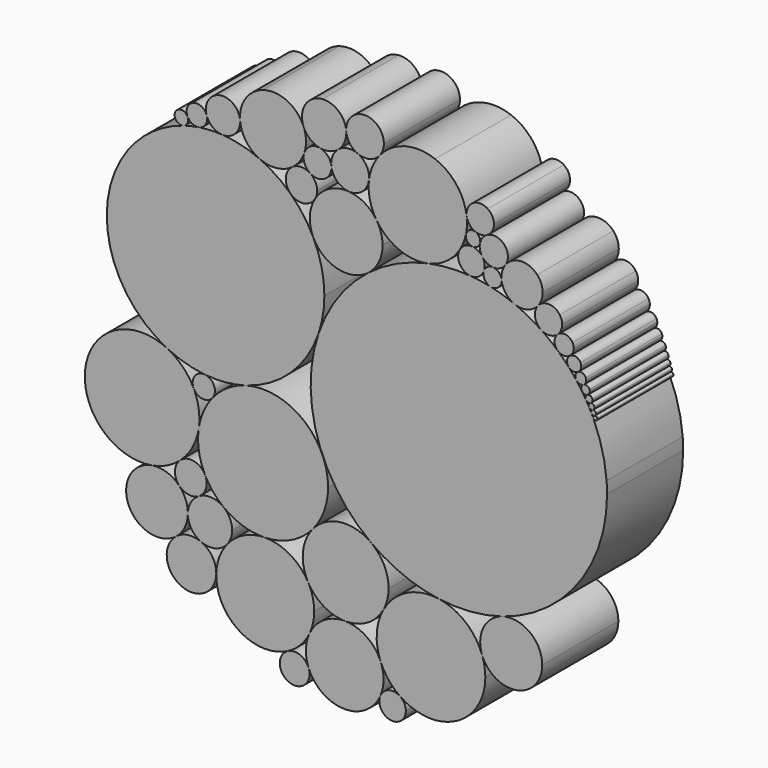
from build123d import *

# Parameters (mm, degrees)
F1_DEPTH = 25.4


with BuildPart() as f1:
    # F0 (on Front) → F1 (new body)
    with BuildSketch(Plane.XZ):
        with BuildLine():
            ThreePointArc((70.7265860618, 2.4745683144), (70.6955349307, 4.0417539427), (70.6024302769, 5.6064796342))
            ThreePointArc((70.6024302769, 5.6064796342), (69.4343144223, 12.5038145939), (67.069684358, 19.0876014111))
            ThreePointArc((67.069684358, 19.0876014111), (66.8194689119, 19.6180642203), (66.561417432, 20.1447595736))
            ThreePointArc((66.561417432, 20.1447595736), (66.2468891695, 20.761306961), (65.9216235359, 21.37225784))
            ThreePointArc((65.9216235359, 21.37225784), (65.5182667451, 22.0960064355), (65.0998424587, 22.8111496704))
            ThreePointArc((65.0998424587, 22.8111496704), (64.5703624695, 23.6697269048), (64.01916646, 24.5145268133))
            ThreePointArc((64.01916646, 24.5145268133), (63.3048176834, 25.5438569264), (62.5582343908, 26.5500517601))
            ThreePointArc((62.5582343908, 26.5500517601), (61.5627975411, 27.7953790129), (60.5179974352, 28.9995912978))
            ThreePointArc((60.5179974352, 28.9995912978), (59.0770425577, 30.5120631597), (57.5582654614, 31.9463707362))
            ThreePointArc((57.5582654614, 31.9463707362), (55.3787244874, 33.761932333), (53.0746979638, 35.4166602706))
            ThreePointArc((53.0746979638, 35.4166602706), (49.6190022197, 37.4700697009), (45.9727850521, 39.162235098))
            ThreePointArc((45.9727850521, 39.162235098), (42.8421333623, 40.2755892893), (39.6291018203, 41.1223276597))
            ThreePointArc((39.6291018203, 41.1223276597), (36.9479887491, 41.6135785986), (34.2394143083, 41.9190606502))
            ThreePointArc((34.2394143083, 41.9190606502), (28.5591375915, 41.9531797016), (22.9325194607, 41.1735156082))
            ThreePointArc((22.9325194607, 41.1735156082), (14.5566621432, 38.3854509354), (7.0074925509, 33.8096090578))
            ThreePointArc((7.0074925509, 33.8096090578), (-1.0152822966, 25.4950711587), (-6.2938644817, 15.2172782612))
            ThreePointArc((-6.2938644817, 15.2172782612), (-8.3710306116, 0.9071162723), (-5.1674009478, -13.1936678286))
            ThreePointArc((-5.1674009478, -13.1936678286), (0.1996326208, -22.1557677236), (7.7251619302, -29.4008137874))
            ThreePointArc((7.7251619302, -29.4008137874), (16.266036153, -34.1783966548), (25.7183035319, -36.7134453613))
            ThreePointArc((25.7183035319, -36.7134453613), (34.2918427277, -36.9657988851), (42.7182940762, -35.3644949427))
            ThreePointArc((42.7182940762, -35.3644949427), (62.9627524245, -21.0640123996), (70.7265860618, 2.4745683144))
        make_face()
    extrude(amount=F1_DEPTH)


with BuildPart() as f1b:
    # F0 (on Front) → F1, piece 2 (new body)
    with BuildSketch(Plane.XZ):
        with BuildLine():
            ThreePointArc((-25.8548264159, -3.3675009466), (-13.785256667, 3.5155633689), (-6.2938644817, 15.2172782612))
            ThreePointArc((-6.2938644817, 15.2172782612), (-5.1357265909, 19.8309585396), (-4.7461978644, 24.5718019727))
            ThreePointArc((-4.7461978644, 24.5718019727), (-5.4851295573, 31.0816232735), (-7.6643257676, 37.2602070347))
            ThreePointArc((-7.6643257676, 37.2602070347), (-10.3368270885, 41.7036101818), (-13.7568341287, 45.6009999086))
            ThreePointArc((-13.7568341287, 45.6009999086), (-17.6573822435, 48.7233844861), (-22.0353523038, 51.1310678535))
            ThreePointArc((-22.0353523038, 51.1310678535), (-26.9470539079, 52.7985131931), (-32.0770261845, 53.5656970366))
            ThreePointArc((-32.0770261845, 53.5656970366), (-35.2240301874, 53.5809063843), (-38.3542064422, 53.2555417689))
            ThreePointArc((-38.3542064422, 53.2555417689), (-40.3827317011, 52.8583288452), (-42.3778686898, 52.3178464412))
            ThreePointArc((-42.3778686898, 52.3178464412), (-50.6926141142, 48.1918698052), (-57.2810943568, 41.6534752953))
            ThreePointArc((-57.2810943568, 41.6534752953), (-61.9894388052, 17.6138397391), (-46.6389350409, -1.4763310119))
            ThreePointArc((-46.6389350409, -1.4763310119), (-41.7685467627, -3.3555398519), (-36.6404322375, -4.3325502209))
            ThreePointArc((-36.6404322375, -4.3325502209), (-31.2022565944, -4.3571213547), (-25.8548264159, -3.3675009466))
        make_face()
    extrude(amount=F1_DEPTH)


with BuildPart() as f1c:
    # F0 (on Front) → F1, piece 3 (new body)
    with BuildSketch(Plane.XZ):
        with BuildLine():
            ThreePointArc((-7.6643257676, 37.2602070347), (-1.1487858414, 32.0467276144), (7.0074925509, 33.8096090578))
            ThreePointArc((7.0074925509, 33.8096090578), (9.7945066165, 37.2171304104), (10.7917476304, 41.5048057166))
            ThreePointArc((10.7917476304, 41.5048057166), (10.3862582648, 44.282422352), (9.2036352491, 46.8281989726))
            ThreePointArc((9.2036352491, 46.8281989726), (5.9988915887, 49.8812350129), (1.7724251326, 51.1959183541))
            ThreePointArc((1.7724251326, 51.1959183541), (-3.4138223762, 50.1215421239), (-7.2660552899, 46.4867451441))
            ThreePointArc((-7.2660552899, 46.4867451441), (-8.6314755655, 41.9238196628), (-7.6643257676, 37.2602070347))
        make_face()
    extrude(amount=F1_DEPTH)


with BuildPart() as f1d:
    # F0 (on Front) → F1, piece 4 (new body)
    with BuildSketch(Plane.XZ):
        with BuildLine():
            ThreePointArc((9.2036352491, 46.8281989726), (15.1930967079, 41.8765105822), (22.9325194607, 41.1735156082))
            ThreePointArc((22.9325194607, 41.1735156082), (27.838754324, 43.3347419714), (31.473790229, 47.2753705883))
            ThreePointArc((31.473790229, 47.2753705883), (32.4322021013, 49.2246755141), (33.0564667524, 51.3052131024))
            ThreePointArc((33.0564667524, 51.3052131024), (33.2703177925, 52.659794636), (33.3418610959, 54.0292854006))
            ThreePointArc((33.3418610959, 54.0292854006), (33.3156757676, 54.8585230557), (33.2372241211, 55.6844565271))
            ThreePointArc((33.2372241211, 55.6844565271), (30.5034036743, 62.1874889086), (24.8010494435, 66.3403626866))
            ThreePointArc((24.8010494435, 66.3403626866), (16.7600966182, 66.7147779228), (10.0089381595, 62.3308335147))
            ThreePointArc((10.0089381595, 62.3308335147), (8.1064823247, 59.1795831403), (7.1525043614, 55.6243555566))
            ThreePointArc((7.1525043614, 55.6243555566), (7.3987474472, 51.044551059), (9.2036352491, 46.8281989726))
        make_face()
    extrude(amount=F1_DEPTH)


with BuildPart() as f1e:
    # F0 (on Front) → F1, piece 5 (new body)
    with BuildSketch(Plane.XZ):
        with BuildLine():
            ThreePointArc((-2.8889233441, 55.6784108901), (-1.3688351527, 52.5942353802), (1.7724251326, 51.1959183541))
            ThreePointArc((1.7724251326, 51.1959183541), (5.3474388159, 52.33498778), (7.1525043614, 55.6243555566))
            ThreePointArc((7.1525043614, 55.6243555566), (7.1805182346, 55.9305206056), (7.1898677208, 56.2378224139))
            ThreePointArc((7.1898677208, 56.2378224139), (6.3549715666, 59.020557652), (4.1260744322, 60.8840716867))
            ThreePointArc((4.1260744322, 60.8840716867), (1.4274811299, 61.2429907815), (-1.0659168938, 60.1501984759))
            ThreePointArc((-1.0659168938, 60.1501984759), (-2.5459486265, 58.146075785), (-2.8889233441, 55.6784108901))
        make_face()
    extrude(amount=F1_DEPTH)


with BuildPart() as f1f:
    # F0 (on Front) → F1, piece 6 (new body)
    with BuildSketch(Plane.XZ):
        with BuildLine():
            ThreePointArc((-10.0938324873, 56.4301447969), (-10.0698999432, 54.0359955639), (-8.5875700652, 52.1557771062))
            ThreePointArc((-8.5875700652, 52.1557771062), (-4.8018665272, 52.0115545486), (-2.8661518301, 55.2681417246))
            ThreePointArc((-2.8661518301, 55.2681417246), (-2.8718490863, 55.473592041), (-2.8889233441, 55.6784108901))
            ThreePointArc((-2.8889233441, 55.6784108901), (-3.8579044087, 57.7919827762), (-5.8950315726, 58.9127964713))
            ThreePointArc((-5.8950315726, 58.9127964713), (-8.4602551397, 58.4592970213), (-10.0938324873, 56.4301447969))
        make_face()
    extrude(amount=F1_DEPTH)


with BuildPart() as f1g:
    # F0 (on Front) → F1, piece 7 (new body)
    with BuildSketch(Plane.XZ):
        with BuildLine():
            ThreePointArc((-13.3147452838, 52.0383806589), (-15.0475498917, 48.9235108189), (-13.7568341287, 45.6009999086))
            ThreePointArc((-13.7568341287, 45.6009999086), (-10.2983894151, 44.4825942492), (-7.2660552899, 46.4867451441))
            ThreePointArc((-7.2660552899, 46.4867451441), (-6.8239984409, 47.5213635941), (-6.6730213069, 48.6362875824))
            ThreePointArc((-6.6730213069, 48.6362875824), (-7.182633283, 50.6395538812), (-8.5875700652, 52.1557771062))
            ThreePointArc((-8.5875700652, 52.1557771062), (-10.9692894093, 52.8271851963), (-13.3147452838, 52.0383806589))
        make_face()
    extrude(amount=F1_DEPTH)


with BuildPart() as f1h:
    # F0 (on Front) → F1, piece 8 (new body)
    with BuildSketch(Plane.XZ):
        with BuildLine():
            ThreePointArc((-27.2557184826, 58.4891686099), (-25.6579066334, 54.0918692218), (-22.0353523038, 51.1310678535))
            ThreePointArc((-22.0353523038, 51.1310678535), (-17.554279227, 50.4239515587), (-13.3147452838, 52.0383806589))
            ThreePointArc((-13.3147452838, 52.0383806589), (-11.3567006786, 53.9793420927), (-10.0938324873, 56.4301447969))
            ThreePointArc((-10.0938324873, 56.4301447969), (-9.7613019093, 57.7942362334), (-9.6495135149, 59.193816666))
            ThreePointArc((-9.6495135149, 59.193816666), (-9.8125148768, 60.8813778929), (-10.2954922341, 62.5065441031))
            ThreePointArc((-10.2954922341, 62.5065441031), (-14.6982462153, 67.165121757), (-21.0926065632, 67.6109290223))
            ThreePointArc((-21.0926065632, 67.6109290223), (-25.7726435346, 64.1300615473), (-27.2557184826, 58.4891686099))
        make_face()
    extrude(amount=F1_DEPTH)


with BuildPart() as f1i:
    # F0 (on Front) → F1, piece 9 (new body)
    with BuildSketch(Plane.XZ):
        with BuildLine():
            ThreePointArc((-10.2954922341, 62.5065441031), (-8.5548497125, 60.1469156695), (-5.8950315726, 58.9127964713))
            ThreePointArc((-5.8950315726, 58.9127964713), (-3.3437885678, 58.9980647244), (-1.0659168938, 60.1501984759))
            ThreePointArc((-1.0659168938, 60.1501984759), (0.534199432, 62.1957450665), (1.1041778181, 64.7294691536))
            ThreePointArc((1.1041778181, 64.7294691536), (1.1004232962, 64.9402146889), (1.0891644956, 65.1506927554))
            ThreePointArc((1.0891644956, 65.1506927554), (-0.9438222557, 69.2060709841), (-5.2510549447, 70.629754331))
            ThreePointArc((-5.2510549447, 70.629754331), (-9.8386682826, 67.8507399313), (-10.2954922341, 62.5065441031))
        make_face()
    extrude(amount=F1_DEPTH)


with BuildPart() as f1j:
    # F0 (on Front) → F1, piece 10 (new body)
    with BuildSketch(Plane.XZ):
        with BuildLine():
            ThreePointArc((4.1260744322, 60.8840716867), (7.3096427838, 60.6228703881), (10.0089381595, 62.3308335147))
            ThreePointArc((10.0089381595, 62.3308335147), (10.8485569095, 63.8222960416), (11.1396573991, 65.5089141428))
            ThreePointArc((11.1396573991, 65.5089141428), (9.8274144696, 68.8976397416), (6.5751483255, 70.5188145064))
            ThreePointArc((6.5751483255, 70.5188145064), (2.5889689455, 69.1052364267), (1.0891644956, 65.1506927554))
            ThreePointArc((1.0891644956, 65.1506927554), (2.0087750328, 62.5911347118), (4.1260744322, 60.8840716867))
        make_face()
    extrude(amount=F1_DEPTH)


with BuildPart() as f1k:
    # F0 (on Front) → F1, piece 11 (new body)
    with BuildSketch(Plane.XZ):
        with BuildLine():
            ThreePointArc((-36.1690439698, 56.7712437971), (-34.623646719, 54.5294182067), (-32.0770261845, 53.5656970366))
            ThreePointArc((-32.0770261845, 53.5656970366), (-28.6753105553, 54.8013416182), (-27.2411124741, 58.1242263014))
            ThreePointArc((-27.2411124741, 58.1242263014), (-27.2447654373, 58.3068435404), (-27.2557184826, 58.4891686099))
            ThreePointArc((-27.2557184826, 58.4891686099), (-29.638220163, 62.1425076719), (-33.9997619931, 62.1301211918))
            ThreePointArc((-33.9997619931, 62.1301211918), (-36.0404269299, 59.8376824887), (-36.1690439698, 56.7712437971))
        make_face()
    extrude(amount=F1_DEPTH)


with BuildPart() as f1l:
    # F0 (on Front) → F1, piece 12 (new body)
    with BuildSketch(Plane.XZ):
        with BuildLine():
            ThreePointArc((-41.2694821761, 54.8095214253), (-42.4950236176, 55.8110894932), (-44.0399732081, 55.4672564196))
            ThreePointArc((-44.0399732081, 55.4672564196), (-44.5156622805, 53.2029172811), (-42.3778686898, 52.3178464412))
            ThreePointArc((-42.3778686898, 52.3178464412), (-41.455356708, 52.9733848527), (-41.1018706955, 54.0484693165))
            ThreePointArc((-41.1018706955, 54.0484693165), (-41.1442697197, 54.4381146427), (-41.2694821761, 54.8095214253))
        make_face()
    extrude(amount=F1_DEPTH)


with BuildPart() as f1m:
    # F0 (on Front) → F1, piece 13 (new body)
    with BuildSketch(Plane.XZ):
        with BuildLine():
            ThreePointArc((-36.1690439698, 56.7712437971), (-37.8920219931, 58.5487725006), (-40.344342676, 58.2105642382))
            ThreePointArc((-40.344342676, 58.2105642382), (-41.4268248126, 56.6786691817), (-41.2694821761, 54.8095214253))
            ThreePointArc((-41.2694821761, 54.8095214253), (-40.07257249, 53.543403869), (-38.3542064422, 53.2555417689))
            ThreePointArc((-38.3542064422, 53.2555417689), (-36.7015692475, 54.1821960673), (-36.0460895205, 55.9599036398))
            ThreePointArc((-36.0460895205, 55.9599036398), (-36.0770026195, 56.3702055553), (-36.1690439698, 56.7712437971))
        make_face()
    extrude(amount=F1_DEPTH)


with BuildPart() as f1n:
    # F0 (on Front) → F1, piece 14 (new body)
    with BuildSketch(Plane.XZ):
        with BuildLine():
            ThreePointArc((-46.6389350409, -1.4763310119), (-63.2019313862, -3.4454036583), (-68.1206563448, -19.3832905886))
            ThreePointArc((-68.1206563448, -19.3832905886), (-61.5566755589, -28.1429575919), (-50.82011584, -30.2745990179))
            ThreePointArc((-50.82011584, -30.2745990179), (-46.7658668043, -28.978429429), (-43.2256592931, -26.6153971347))
            ThreePointArc((-43.2256592931, -26.6153971347), (-39.9531373061, -22.4799781795), (-38.2792730739, -17.479051403))
            ThreePointArc((-38.2792730739, -17.479051403), (-38.1508966577, -16.3409526078), (-38.108024422, -15.1964390242))
            ThreePointArc((-38.108024422, -15.1964390242), (-38.4891377492, -11.8029796306), (-39.6134891055, -8.5785962707))
            ThreePointArc((-39.6134891055, -8.5785962707), (-42.530149213, -4.4378478996), (-46.6389350409, -1.4763310119))
        make_face()
    extrude(amount=F1_DEPTH)


with BuildPart() as f1o:
    # F0 (on Front) → F1, piece 15 (new body)
    with BuildSketch(Plane.XZ):
        with BuildLine():
            ThreePointArc((-3.7478499271, -20.0697055116), (-4.1064406164, -16.5591849192), (-5.1674009478, -13.1936678286))
            ThreePointArc((-5.1674009478, -13.1936678286), (-13.6612970462, -4.3860908134), (-25.8548264159, -3.3675009466))
            ThreePointArc((-25.8548264159, -3.3675009466), (-30.6853637297, -5.585349027), (-34.6185936319, -9.1606313073))
            ThreePointArc((-34.6185936319, -9.1606313073), (-37.0028513951, -13.0760791543), (-38.2792730739, -17.479051403))
            ThreePointArc((-38.2792730739, -17.479051403), (-38.2568193105, -22.8050264898), (-36.6210225576, -27.8736243017))
            ThreePointArc((-36.6210225576, -27.8736243017), (-34.4875855668, -31.1390330508), (-31.6790521702, -33.845800099))
            ThreePointArc((-31.6790521702, -33.845800099), (-26.5350432627, -36.5635506863), (-20.7820306468, -37.4294847117))
            ThreePointArc((-20.7820306468, -37.4294847117), (-13.6372970891, -35.7418981258), (-7.8286252244, -31.2525220818))
            ThreePointArc((-7.8286252244, -31.2525220818), (-4.7999176635, -26.0217663621), (-3.7478499271, -20.0697055116))
        make_face()
    extrude(amount=F1_DEPTH)


with BuildPart() as f1p:
    # F0 (on Front) → F1, piece 16 (new body)
    with BuildSketch(Plane.XZ):
        with BuildLine():
            ThreePointArc((-33.9583015684, -7.292121928), (-34.7285928899, -5.2950684976), (-36.6404322375, -4.3325502209))
            ThreePointArc((-36.6404322375, -4.3325502209), (-39.3683313466, -5.5863726842), (-39.6134891055, -8.5785962707))
            ThreePointArc((-39.6134891055, -8.5785962707), (-37.276432617, -10.2460558761), (-34.6185936319, -9.1606313073))
            ThreePointArc((-34.6185936319, -9.1606313073), (-34.1282293627, -8.2829943857), (-33.9583015684, -7.292121928))
        make_face()
    extrude(amount=F1_DEPTH)


with BuildPart() as f1q:
    # F0 (on Front) → F1, piece 17 (new body)
    with BuildSketch(Plane.XZ):
        with BuildLine():
            ThreePointArc((-36.1689310478, -29.7780112551), (-36.2835029626, -28.7993544714), (-36.6210225576, -27.8736243017))
            ThreePointArc((-36.6210225576, -27.8736243017), (-39.6130623393, -25.6158085243), (-43.2256592931, -26.6153971347))
            ThreePointArc((-43.2256592931, -26.6153971347), (-44.6396355375, -29.6079896582), (-43.4701885606, -32.7043314674))
            ThreePointArc((-43.4701885606, -32.7043314674), (-40.9946302437, -33.973981634), (-38.2652759444, -33.4345137155))
            ThreePointArc((-38.2652759444, -33.4345137155), (-36.7301907563, -31.8854191516), (-36.1689310478, -29.7780112551))
        make_face()
    extrude(amount=F1_DEPTH)


with BuildPart() as f1r:
    # F0 (on Front) → F1, piece 18 (new body)
    with BuildSketch(Plane.XZ):
        with BuildLine():
            ThreePointArc((-29.3652421006, -38.5370785013), (-29.9751513273, -35.9216526236), (-31.6790521702, -33.845800099))
            ThreePointArc((-31.6790521702, -33.845800099), (-34.9094490172, -32.6358560009), (-38.2652759444, -33.4345137155))
            ThreePointArc((-38.2652759444, -33.4345137155), (-40.3924760462, -35.5702708898), (-41.1903729198, -38.4771247836))
            ThreePointArc((-41.1903729198, -38.4771247836), (-40.2315879293, -41.7653585839), (-37.6104930414, -43.9702648794))
            ThreePointArc((-37.6104930414, -43.9702648794), (-33.8623342764, -44.2778303871), (-30.6868719914, -42.2629532331))
            ThreePointArc((-30.6868719914, -42.2629532331), (-29.7054362816, -40.5137453982), (-29.3652421006, -38.5370785013))
        make_face()
    extrude(amount=F1_DEPTH)


with BuildPart() as f1s:
    # F0 (on Front) → F1, piece 19 (new body)
    with BuildSketch(Plane.XZ):
        with BuildLine():
            ThreePointArc((-33.6059783765, -50.2019294995), (-27.4531845151, -61.5964537001), (-14.5137057563, -62.1082578743))
            ThreePointArc((-14.5137057563, -62.1082578743), (-11.1061617613, -59.560768848), (-8.6969168392, -56.0541186911))
            ThreePointArc((-8.6969168392, -56.0541186911), (-7.772658791, -53.3461960138), (-7.4595748332, -50.5020658126))
            ThreePointArc((-7.4595748332, -50.5020658126), (-7.8741382188, -47.2357365177), (-9.0915394588, -44.1765366084))
            ThreePointArc((-9.0915394588, -44.1765366084), (-13.9988216598, -39.1778189544), (-20.7820306468, -37.4294847117))
            ThreePointArc((-20.7820306468, -37.4294847117), (-26.2686169681, -38.7515959327), (-30.6868719914, -42.2629532331))
            ThreePointArc((-30.6868719914, -42.2629532331), (-32.8061600965, -45.9898614251), (-33.6059783765, -50.2019294995))
        make_face()
    extrude(amount=F1_DEPTH)


with BuildPart() as f1t:
    # F0 (on Front) → F1, piece 20 (new body)
    with BuildSketch(Plane.XZ):
        with BuildLine():
            ThreePointArc((-44.3216400404, -44.8579239331), (-46.836944931, -50.0222164561), (-44.3651779325, -55.2074882775))
            ThreePointArc((-44.3651779325, -55.2074882775), (-37.4296998106, -56.0489919805), (-33.6059783765, -50.2019294995))
            ThreePointArc((-33.6059783765, -50.2019294995), (-33.6046708105, -50.125994551), (-33.604234936, -50.0500495963))
            ThreePointArc((-33.604234936, -50.0500495963), (-34.6958505002, -46.4095178285), (-37.6104930414, -43.9702648794))
            ThreePointArc((-37.6104930414, -43.9702648794), (-41.0881884412, -43.4907916798), (-44.3216400404, -44.8579239331))
        make_face()
    extrude(amount=F1_DEPTH)


with BuildPart() as f1u:
    # F0 (on Front) → F1, piece 21 (new body)
    with BuildSketch(Plane.XZ):
        with BuildLine():
            ThreePointArc((12.39606271, -38.6328101099), (11.1618730243, -33.4596324067), (7.7251619302, -29.4008137874))
            ThreePointArc((7.7251619302, -29.4008137874), (-0.4175112242, -27.254230605), (-7.8286252244, -31.2525220818))
            ThreePointArc((-7.8286252244, -31.2525220818), (-10.4674802695, -37.5183695983), (-9.0915394588, -44.1765366084))
            ThreePointArc((-9.0915394588, -44.1765366084), (-4.9408397604, -48.469302919), (0.8060093742, -50.0909920405))
            ThreePointArc((0.8060093742, -50.0909920405), (6.7268624967, -48.5214970839), (10.9933524158, -44.1263998282))
            ThreePointArc((10.9933524158, -44.1263998282), (12.0398484694, -41.4677318091), (12.39606271, -38.6328101099))
        make_face()
    extrude(amount=F1_DEPTH)


with BuildPart() as f1v:
    # F0 (on Front) → F1, piece 22 (new body)
    with BuildSketch(Plane.XZ):
        with BuildLine():
            ThreePointArc((-8.9777365143, -64.2002855092), (-5.1214859819, -69.0401131029), (0.8052522741, -70.8201055045))
            ThreePointArc((0.8052522741, -70.8201055045), (6.4447152092, -69.0747888683), (10.2166786969, -64.5336476237))
            ThreePointArc((10.2166786969, -64.5336476237), (10.841495001, -62.5369951112), (11.0526343698, -60.4555444544))
            ThreePointArc((11.0526343698, -60.4555444544), (10.8596589343, -58.4647580718), (10.2879180961, -56.548098907))
            ThreePointArc((10.2879180961, -56.548098907), (6.5216886023, -51.8882152495), (0.8060093742, -50.0909920405))
            ThreePointArc((0.8060093742, -50.0909920405), (-4.8219600082, -51.6757420912), (-8.6969168392, -56.0541186911))
            ThreePointArc((-8.6969168392, -56.0541186911), (-9.6716743379, -60.0984399542), (-8.9777365143, -64.2002855092))
        make_face()
    extrude(amount=F1_DEPTH)


with BuildPart() as f1w:
    # F0 (on Front) → F1, piece 23 (new body)
    with BuildSketch(Plane.XZ):
        with BuildLine():
            ThreePointArc((-14.5137057563, -62.1082578743), (-16.6168690602, -66.2057564304), (-13.4376524995, -69.5382288399))
            ThreePointArc((-13.4376524995, -69.5382288399), (-10.1539547339, -68.7013970435), (-8.7093032318, -65.6361172016))
            ThreePointArc((-8.7093032318, -65.6361172016), (-8.7769879073, -64.9057629937), (-8.9777365143, -64.2002855092))
            ThreePointArc((-8.9777365143, -64.2002855092), (-11.2786949662, -61.9184168376), (-14.5137057563, -62.1082578743))
        make_face()
    extrude(amount=F1_DEPTH)


with BuildPart() as f1x:
    # F0 (on Front) → F1, piece 24 (new body)
    with BuildSketch(Plane.XZ):
        with BuildLine():
            ThreePointArc((10.2166786969, -64.5336476237), (10.7270788821, -68.1606759205), (14.1769255027, -69.3912858952))
            ThreePointArc((14.1769255027, -69.3912858952), (16.209128888, -68.1624711978), (17.0062894148, -65.9254259916))
            ThreePointArc((17.0062894148, -65.9254259916), (16.6013476145, -64.2819700302), (15.4792317709, -63.0147757307))
            ThreePointArc((15.4792317709, -63.0147757307), (12.4878998404, -62.5266998713), (10.2166786969, -64.5336476237))
        make_face()
    extrude(amount=F1_DEPTH)


with BuildPart() as f1y:
    # F0 (on Front) → F1, piece 25 (new body)
    with BuildSketch(Plane.XZ):
        with BuildLine():
            ThreePointArc((15.4792317709, -63.0147757307), (22.4933888486, -65.532698365), (29.8320098325, -64.2354027328))
            ThreePointArc((29.8320098325, -64.2354027328), (35.9495739675, -58.8830447208), (38.2271927477, -51.0801747408))
            ThreePointArc((38.2271927477, -51.0801747408), (38.0069479359, -48.56210813), (37.3529020629, -46.1205120886))
            ThreePointArc((37.3529020629, -46.1205120886), (32.8421380393, -39.8010644929), (25.7183035319, -36.7134453613))
            ThreePointArc((25.7183035319, -36.7134453613), (17.2002959879, -38.1245959363), (10.9933524158, -44.1263998282))
            ThreePointArc((10.9933524158, -44.1263998282), (9.241138155, -50.257771248), (10.2879180961, -56.548098907))
            ThreePointArc((10.2879180961, -56.548098907), (12.411586017, -60.1603402057), (15.4792317709, -63.0147757307))
        make_face()
    extrude(amount=F1_DEPTH)


with BuildPart() as f1z:
    # F0 (on Front) → F1, piece 26 (new body)
    with BuildSketch(Plane.XZ):
        with BuildLine():
            ThreePointArc((37.3529020629, -46.1205120886), (43.4292965964, -51.3941205978), (51.1173595307, -49.0219474267))
            ThreePointArc((51.1173595307, -49.0219474267), (52.8246914347, -46.3778533549), (53.4225670031, -43.2877464804))
            ThreePointArc((53.4225670031, -43.2877464804), (50.0668785457, -36.6289295092), (42.7182940762, -35.3644949427))
            ThreePointArc((42.7182940762, -35.3644949427), (37.7246855245, -39.5897578901), (37.3529020629, -46.1205120886))
        make_face()
    extrude(amount=F1_DEPTH)


with BuildPart() as f1ba:
    # F0 (on Front) → F1, piece 27 (new body)
    with BuildSketch(Plane.XZ):
        with BuildLine():
            ThreePointArc((31.473790229, 47.2753705883), (31.3650241633, 43.8270689377), (34.2394143083, 41.9190606502))
            ThreePointArc((34.2394143083, 41.9190606502), (36.4534626209, 42.485112823), (37.8621296293, 44.2845800367))
            ThreePointArc((37.8621296293, 44.2845800367), (38.0104833169, 44.8607293477), (38.0604031521, 45.4535740619))
            ThreePointArc((38.0604031521, 45.4535740619), (37.894805669, 46.5244369236), (37.4134832186, 47.4952605398))
            ThreePointArc((37.4134832186, 47.4952605398), (36.2684395101, 48.5349363597), (34.7897162857, 48.9881786026))
            ThreePointArc((34.7897162857, 48.9881786026), (32.8881238563, 48.6034311223), (31.473790229, 47.2753705883))
        make_face()
    extrude(amount=F1_DEPTH)


with BuildPart() as f1bb:
    # F0 (on Front) → F1, piece 28 (new body)
    with BuildSketch(Plane.XZ):
        with BuildLine():
            ThreePointArc((37.4134832186, 47.4952605398), (38.665736959, 46.3703998291), (40.2828274529, 45.9029927439))
            ThreePointArc((40.2828274529, 45.9029927439), (42.121814824, 46.2666577944), (43.5580435819, 47.4713875462))
            ThreePointArc((43.5580435819, 47.4713875462), (44.0821679246, 48.5132409033), (44.2626378899, 49.665454137))
            ThreePointArc((44.2626378899, 49.665454137), (42.3998636447, 52.9165179207), (38.6531347845, 52.9534836095))
            ThreePointArc((38.6531347845, 52.9534836095), (37.4717645102, 51.9161084152), (36.8164843926, 50.4869859619))
            ThreePointArc((36.8164843926, 50.4869859619), (36.7987052956, 48.9280098723), (37.4134832186, 47.4952605398))
        make_face()
    extrude(amount=F1_DEPTH)


with BuildPart() as f1bc:
    # F0 (on Front) → F1, piece 29 (new body)
    with BuildSketch(Plane.XZ):
        with BuildLine():
            ThreePointArc((35.6030396655, 52.7121516206), (34.0082866353, 52.5905401033), (33.0564667524, 51.3052131024))
            ThreePointArc((33.0564667524, 51.3052131024), (33.3980519527, 49.7539418459), (34.7897162857, 48.9881786026))
            ThreePointArc((34.7897162857, 48.9881786026), (36.0827314163, 49.3594500658), (36.8164843926, 50.4869859619))
            ThreePointArc((36.8164843926, 50.4869859619), (36.8511578298, 50.6954388958), (36.8627623024, 50.9064370217))
            ThreePointArc((36.8627623024, 50.9064370217), (36.5167119645, 52.0072896838), (35.6030396655, 52.7121516206))
        make_face()
    extrude(amount=F1_DEPTH)


with BuildPart() as f1bd:
    # F0 (on Front) → F1, piece 30 (new body)
    with BuildSketch(Plane.XZ):
        with BuildLine():
            ThreePointArc((33.2372241211, 55.6844565271), (34.0040230751, 53.8671009365), (35.6030396655, 52.7121516206))
            ThreePointArc((35.6030396655, 52.7121516206), (37.1545316336, 52.4985976807), (38.6531347845, 52.9534836095))
            ThreePointArc((38.6531347845, 52.9534836095), (40.0217521346, 54.2953587427), (40.5239166601, 56.1451082158))
            ThreePointArc((40.5239166601, 56.1451082158), (40.0850433511, 57.882377846), (38.8737348923, 59.2027745162))
            ThreePointArc((38.8737348923, 59.2027745162), (34.9291050087, 59.2481204043), (33.2372241211, 55.6844565271))
        make_face()
    extrude(amount=F1_DEPTH)


with BuildPart() as f1be:
    # F0 (on Front) → F1, piece 31 (new body)
    with BuildSketch(Plane.XZ):
        with BuildLine():
            ThreePointArc((37.8621296293, 44.2845800367), (38.0342357287, 42.305955951), (39.6291018203, 41.1223276597))
            ThreePointArc((39.6291018203, 41.1223276597), (41.6643060443, 41.6008893354), (42.567319188, 43.4865310758))
            ThreePointArc((42.567319188, 43.4865310758), (42.5643795953, 43.6057812121), (42.5555679581, 43.7247416729))
            ThreePointArc((42.5555679581, 43.7247416729), (41.8217293033, 45.2338600545), (40.2828274529, 45.9029927439))
            ThreePointArc((40.2828274529, 45.9029927439), (38.8018656034, 45.4985485047), (37.8621296293, 44.2845800367))
        make_face()
    extrude(amount=F1_DEPTH)


with BuildPart() as f1bf:
    # F0 (on Front) → F1, piece 32 (new body)
    with BuildSketch(Plane.XZ):
        with BuildLine():
            ThreePointArc((53.5378451955, 44.2665115599), (53.1607391616, 46.2688483611), (52.0810911175, 47.9968303422))
            ThreePointArc((52.0810911175, 47.9968303422), (47.6946359831, 49.7605825864), (43.5580435819, 47.4713875462))
            ThreePointArc((43.5580435819, 47.4713875462), (42.715894241, 45.689280996), (42.5555679581, 43.7247416729))
            ThreePointArc((42.5555679581, 43.7247416729), (43.6275817689, 40.966692927), (45.9727850521, 39.162235098))
            ThreePointArc((45.9727850521, 39.162235098), (49.3893910713, 38.9316569115), (52.2811869191, 40.7657451769))
            ThreePointArc((52.2811869191, 40.7657451769), (53.2141639089, 42.4067699588), (53.5378451955, 44.2665115599))
        make_face()
    extrude(amount=F1_DEPTH)


with BuildPart() as f1bg:
    # F0 (on Front) → F1, piece 33 (new body)
    with BuildSketch(Plane.XZ):
        with BuildLine():
            ThreePointArc((58.7342531179, 38.4493104456), (58.5665202427, 39.5418902792), (58.0787702958, 40.5338403784))
            ThreePointArc((58.0787702958, 40.5338403784), (55.2375350365, 42.0886944245), (52.2811869191, 40.7657451769))
            ThreePointArc((52.2811869191, 40.7657451769), (51.4890915514, 37.9148424064), (53.0746979638, 35.4166602706))
            ThreePointArc((53.0746979638, 35.4166602706), (55.3672366523, 34.8174334818), (57.5432672625, 35.7553552088))
            ThreePointArc((57.5432672625, 35.7553552088), (58.4232269357, 36.9765713202), (58.7342531179, 38.4493104456))
        make_face()
    extrude(amount=F1_DEPTH)


with BuildPart() as f1bh:
    # F0 (on Front) → F1, piece 34 (new body)
    with BuildSketch(Plane.XZ):
        with BuildLine():
            ThreePointArc((61.8358297351, 33.8576328418), (61.749921534, 34.5160103061), (61.497949764, 35.1302995961))
            ThreePointArc((61.497949764, 35.1302995961), (59.6706203218, 36.3919414688), (57.5432672625, 35.7553552088))
            ThreePointArc((57.5432672625, 35.7553552088), (56.7043127162, 33.8475299896), (57.5582654614, 31.9463707362))
            ThreePointArc((57.5582654614, 31.9463707362), (59.1506461628, 31.2946447825), (60.7967273433, 31.7954838425))
            ThreePointArc((60.7967273433, 31.7954838425), (61.5613752471, 32.7030558331), (61.8358297351, 33.8576328418))
        make_face()
    extrude(amount=F1_DEPTH)


with BuildPart() as f1bi:
    # F0 (on Front) → F1, piece 35 (new body)
    with BuildSketch(Plane.XZ):
        with BuildLine():
            ThreePointArc((63.8218654602, 30.2711391645), (63.7730653346, 30.6986076853), (63.6291762144, 31.104078658))
            ThreePointArc((63.6291762144, 31.104078658), (62.3750059999, 32.1136615709), (60.7967273433, 31.7954838425))
            ThreePointArc((60.7967273433, 31.7954838425), (60.037976586, 30.4592857758), (60.5179974352, 28.9995912978))
            ThreePointArc((60.5179974352, 28.9995912978), (61.6667715007, 28.3922119494), (62.9368778472, 28.6668415084))
            ThreePointArc((62.9368778472, 28.6668415084), (63.585945578, 29.355036817), (63.8218654602, 30.2711391645))
        make_face()
    extrude(amount=F1_DEPTH)


with BuildPart() as f1bj:
    # F0 (on Front) → F1, piece 36 (new body)
    with BuildSketch(Plane.XZ):
        with BuildLine():
            ThreePointArc((65.1686510244, 27.4357161776), (65.1386746812, 27.729586429), (65.0499804307, 28.0113516429))
            ThreePointArc((65.0499804307, 28.0113516429), (64.1444129072, 28.8258229273), (62.9368778472, 28.6668415084))
            ThreePointArc((62.9368778472, 28.6668415084), (62.2804859724, 27.6919944003), (62.5582343908, 26.5500517601))
            ThreePointArc((62.5582343908, 26.5500517601), (63.4159686443, 26.0109363796), (64.4177129124, 26.1621377836))
            ThreePointArc((64.4177129124, 26.1621377836), (64.9669387735, 26.6964750171), (65.1686510244, 27.4357161776))
        make_face()
    extrude(amount=F1_DEPTH)


with BuildPart() as f1bk:
    # F0 (on Front) → F1, piece 37 (new body)
    with BuildSketch(Plane.XZ):
        with BuildLine():
            ThreePointArc((66.125085831, 25.1554209015), (66.1055191468, 25.366701172), (66.0474846506, 25.5707947904))
            ThreePointArc((66.0474846506, 25.5707947904), (65.3670107904, 26.2369127045), (64.4177129124, 26.1621377836))
            ThreePointArc((64.4177129124, 26.1621377836), (63.8563734566, 25.4259137809), (64.01916646, 24.5145268133))
            ThreePointArc((64.01916646, 24.5145268133), (64.6788471984, 24.043604925), (65.4853212172, 24.1245107874))
            ThreePointArc((65.4853212172, 24.1245107874), (65.9521466574, 24.5487755306), (66.125085831, 25.1554209015))
        make_face()
    extrude(amount=F1_DEPTH)


with BuildPart() as f1bl:
    # F0 (on Front) → F1, piece 38 (new body)
    with BuildSketch(Plane.XZ):
        with BuildLine():
            ThreePointArc((66.8301959192, 23.2899053904), (66.8167917004, 23.4473535417), (66.7769648537, 23.60026991))
            ThreePointArc((66.7769648537, 23.60026991), (66.2490678397, 24.1529377469), (65.4853212172, 24.1245107874))
            ThreePointArc((65.4853212172, 24.1245107874), (65.0050792568, 23.5522138281), (65.0998424587, 22.8111496704))
            ThreePointArc((65.0998424587, 22.8111496704), (65.6201301387, 22.4011586763), (66.2813628644, 22.4406955918))
            ThreePointArc((66.2813628644, 22.4406955918), (66.6810456221, 22.7843425842), (66.8301959192, 23.2899053904))
        make_face()
    extrude(amount=F1_DEPTH)


with BuildPart() as f1bm:
    # F0 (on Front) → F1, piece 39 (new body)
    with BuildSketch(Plane.XZ):
        with BuildLine():
            ThreePointArc((67.3662230988, 21.7395647781), (67.3566729912, 21.8603819238), (67.3282598726, 21.9781982297))
            ThreePointArc((67.3282598726, 21.9781982297), (66.9079797368, 22.4429761478), (66.2813628644, 22.4406955918))
            ThreePointArc((66.2813628644, 22.4406955918), (65.8684322996, 21.9849475222), (65.9216235359, 21.37225784))
            ThreePointArc((65.9216235359, 21.37225784), (66.3408342342, 21.0145700586), (66.8917103167, 21.0291885481))
            ThreePointArc((66.8917103167, 21.0291885481), (67.2366843923, 21.3124240611), (67.3662230988, 21.7395647781))
        make_face()
    extrude(amount=F1_DEPTH)


with BuildPart() as f1bn:
    # F0 (on Front) → F1, piece 40 (new body)
    with BuildSketch(Plane.XZ):
        with BuildLine():
            ThreePointArc((67.7842439758, 20.4330011311), (67.7772155559, 20.5279888968), (67.7562833791, 20.6209077769))
            ThreePointArc((67.7562833791, 20.6209077769), (67.4144480156, 21.0165870458), (66.8917103167, 21.0291885481))
            ThreePointArc((66.8917103167, 21.0291885481), (66.5342591706, 20.6587908796), (66.561417432, 20.1447595736))
            ThreePointArc((66.561417432, 20.1447595736), (66.9054016791, 19.8313204974), (67.3707712743, 19.830723347))
            ThreePointArc((67.3707712743, 19.830723347), (67.6709278243, 20.0677278758), (67.7842439758, 20.4330011311))
        make_face()
    extrude(amount=F1_DEPTH)


with BuildPart() as f1bo:
    # F0 (on Front) → F1, piece 41 (new body)
    with BuildSketch(Plane.XZ):
        with BuildLine():
            ThreePointArc((68.1173166335, 19.3182088637), (68.1120014627, 19.3944315742), (68.0961588315, 19.4691789064))
            ThreePointArc((68.0961588315, 19.4691789064), (67.8131047145, 19.8097367938), (67.3707712743, 19.830723347))
            ThreePointArc((67.3707712743, 19.830723347), (67.0591144306, 19.524439866), (67.069684358, 19.0876014111))
            ThreePointArc((67.069684358, 19.0876014111), (67.6861836918, 18.7818523634), (68.1173166335, 19.3182088637))
        make_face()
    extrude(amount=F1_DEPTH)


with BuildPart() as f1bp:
    # F0 (on Front) → F1, piece 42 (new body)
    with BuildSketch(Plane.XZ):
        with BuildLine():
            ThreePointArc((-50.82011584, -30.2745990179), (-57.1068560114, -35.4127958293), (-55.9330434099, -43.4468690448))
            ThreePointArc((-55.9330434099, -43.4468690448), (-50.4212583432, -46.5710014894), (-44.3216400404, -44.8579239331))
            ThreePointArc((-44.3216400404, -44.8579239331), (-42.0324033156, -42.0226201299), (-41.1903729198, -38.4771247836))
            ThreePointArc((-41.1903729198, -38.4771247836), (-41.1900553031, -38.4353614882), (-41.18994943, -38.3935971192))
            ThreePointArc((-41.18994943, -38.3935971192), (-41.7812298365, -35.3289913472), (-43.4701885606, -32.7043314674))
            ThreePointArc((-43.4701885606, -32.7043314674), (-46.841962738, -30.5723187888), (-50.82011584, -30.2745990179))
        make_face()
    extrude(amount=F1_DEPTH)


solid = Compound([f1.part, f1b.part, f1c.part, f1d.part, f1e.part, f1f.part, f1g.part, f1h.part, f1i.part, f1j.part, f1k.part, f1l.part, f1m.part, f1n.part, f1o.part, f1p.part, f1q.part, f1r.part, f1s.part, f1t.part, f1u.part, f1v.part, f1w.part, f1x.part, f1y.part, f1z.part, f1ba.part, f1bb.part, f1bc.part, f1bd.part, f1be.part, f1bf.part, f1bg.part, f1bh.part, f1bi.part, f1bj.part, f1bk.part, f1bl.part, f1bm.part, f1bn.part, f1bo.part, f1bp.part])
